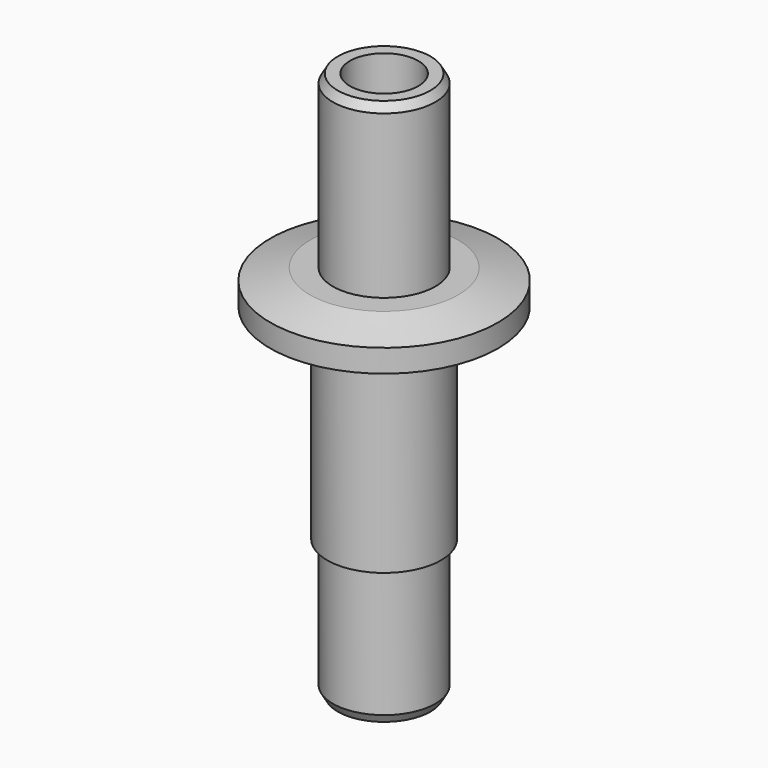
from build123d import *

# Parameters (mm, degrees)
F0_R      = 4.5
F1_DEPTH  = 12
F2_R      = 5
F3_DEPTH  = 18
F4_R      = 10
F5_DEPTH  = 3
F6_R      = 4.5
F7_DEPTH  = 15
F8_R      = 3
F9_DEPTH  = 48.001
F10_SIZE2 = 0.4330127019
F10_SIZE  = 0.75
F11_SIZE2 = 0.4330127019
F11_SIZE  = 0.75
F12_SIZE2 = 3.4874144438
F12_SIZE  = 1


with BuildPart() as f1:
    # F0 (on Top) → F1 (new body)
    with BuildSketch(Plane.XY):
        Circle(F0_R)
    extrude(amount=F1_DEPTH)

    # F2 (on face) → F3 (join)
    with BuildSketch(Plane.XY.offset(12)):
        Circle(F2_R)
    extrude(amount=F3_DEPTH)

    # F4 (on face) → F5 (join)
    with BuildSketch(Plane.XY.offset(30)):
        Circle(F4_R)
    extrude(amount=F5_DEPTH)

    # F6 (on face) → F7 (join)
    with BuildSketch(Plane.XY.offset(33)):
        Circle(F6_R)
    extrude(amount=F7_DEPTH)

    # F8 (on face) → F9 (cut, through all)
    with BuildSketch(Plane(origin=(0, 0, 0), x_dir=(1, 0, 0), z_dir=(0, 0, -1))):
        Circle(F8_R)
    extrude(amount=-F9_DEPTH, mode=Mode.SUBTRACT)

    # F10
    f10_edges = [f1.edges().sort_by_distance(p)[0] for p in [
        (-4.5, 0, 48),
    ]]
    f10_side = f1.faces().sort_by_distance((-4.5, 0, 40.5))[0]
    chamfer(f10_edges, length=F10_SIZE, length2=F10_SIZE2, reference=f10_side)

    # F11
    f11_edges = [f1.edges().sort_by_distance(p)[0] for p in [
        (-4.5, 0, 0),
    ]]
    f11_side = f1.faces().sort_by_distance((-4.5, 0, 6))[0]
    chamfer(f11_edges, length=F11_SIZE, length2=F11_SIZE2, reference=f11_side)

    # F12
    f12_edges = [f1.edges().sort_by_distance(p)[0] for p in [
        (-10, 0, 33),
    ]]
    f12_side = f1.faces().sort_by_distance((-10, 0, 31.5))[0]
    chamfer(f12_edges, length=F12_SIZE, length2=F12_SIZE2, reference=f12_side)


solid = f1.part
